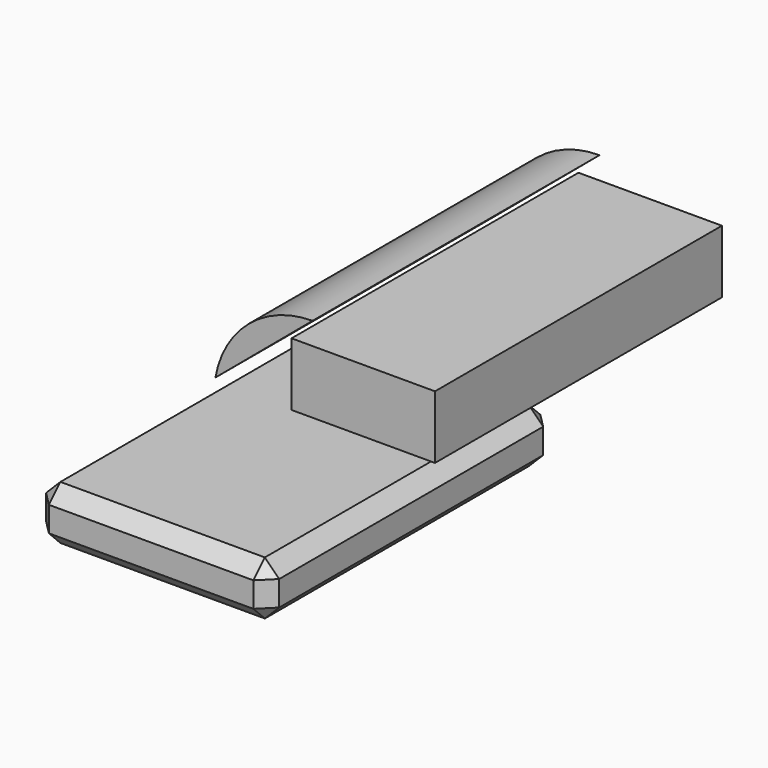
from build123d import *

# Parameters (mm, degrees)
F0_W     = 82.55
F0_H     = 19.05
F1_DEPTH = 63.5
F2_SIZE  = 5.08


with BuildPart() as f1:
    # F0 (on Front) → F1 (new body, symmetric)
    with BuildSketch(Plane.XZ):
        Rectangle(F0_W, F0_H)
        with BuildLine():
            ThreePointArc((57.15, 92.166192), (34.692222, 83.988226), (22.751778, 63.2842))
            add(Edge.make_bspline(
                [(22.751778, 63.2842), (34.217852, 72.911531), (45.683926, 82.538861), (57.15, 92.166192)],
                knots=[83.603109, 83.603109, 83.603109, 83.603109, 128.518665, 128.518665, 128.518665, 128.518665], degree=3))
        make_face()
        Polygon((49.702182, 84.283429), (49.702182, 71.260666), (49.702182, 61.948955), (100.502182, 61.948955), (100.502182, 84.283429), align=None)
        Rectangle(F0_W, F0_H)
    extrude(amount=F1_DEPTH, both=True)

    # F2
    f2_edges = [f1.edges().sort_by_distance(p)[0] for p in [
        (41.275, 63.5, 0),
        (41.275, 0, 9.525),
        (41.275, -63.5, 0),
        (41.275, 0, -9.525),
        (0, -63.5, 9.525),
        (-41.275, -63.5, 0),
        (0, -63.5, -9.525),
        (0, 63.5, 9.525),
        (-41.275, 63.5, 0),
        (0, 63.5, -9.525),
        (-41.275, 0, 9.525),
        (-41.275, 0, -9.525),
    ]]
    chamfer(f2_edges, length=F2_SIZE)


solid = f1.part
